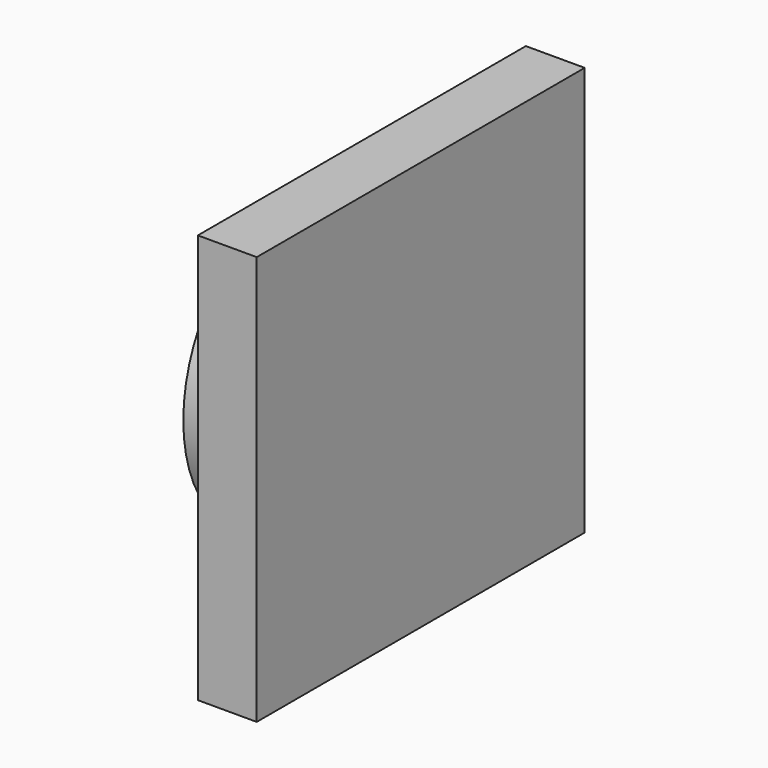
from build123d import *

# Parameters (mm, degrees)
F0_R     = 12.7
F1_DEPTH = 5
F2_W     = 34.810588
F2_H     = 34.74434
F3_DEPTH = 5


with BuildPart() as f1:
    # F0 (on Right) → F1 (new body)
    with BuildSketch(Plane.YZ):
        Circle(F0_R)
    extrude(amount=F1_DEPTH)

    # F2 (on face) → F3 (join)
    with BuildSketch(Plane.YZ.offset(5)):
        Rectangle(F2_W, F2_H)
    extrude(amount=F3_DEPTH)


solid = f1.part
